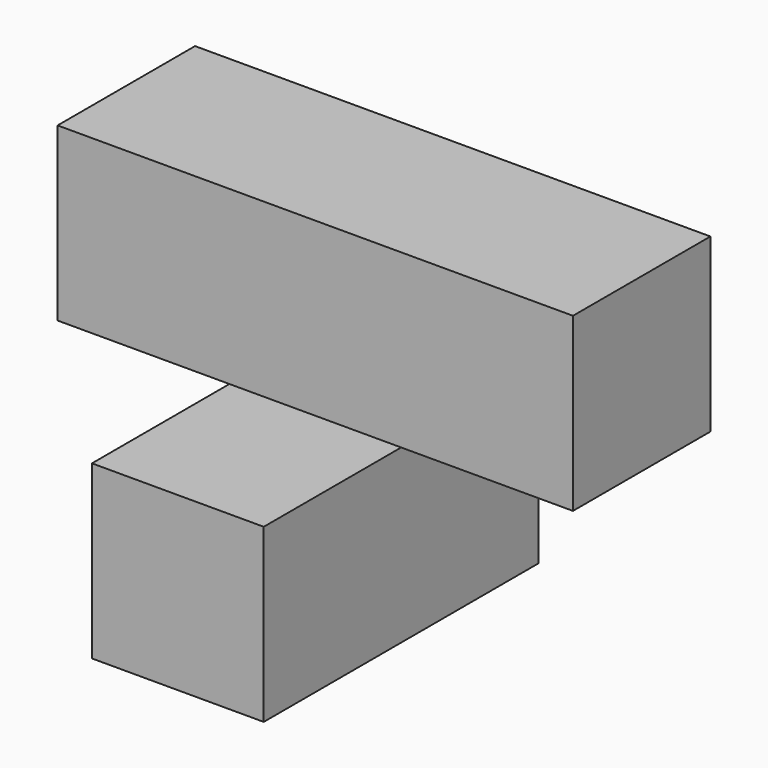
from build123d import *

# Parameters (mm, degrees)
F0_W      = 19.05
F0_H      = 19.05
F1_DEPTH  = 19.05
F1_FACE_W = 19.05
F1_FACE_H = 19.05
F2_DEPTH  = 19.05
F3_W      = 19.05
F3_H      = 19.05
F4_DEPTH  = 19.05
F5_W      = 19.05
F5_H      = 19.05
F6_DEPTH  = 19.05
F7_W      = 19.05
F7_H      = 19.05
F8_DEPTH  = 19.05


with BuildPart() as f1:
    # F0 (on Top) → F1 (new body)
    with BuildSketch(Plane.XY):
        with Locations((-9.525, 25.527001)):
            Rectangle(F0_W, F0_H)
        with Locations((-9.525, 25.527001)):
            Rectangle(F0_W, F0_H)
    extrude(amount=F1_DEPTH)

    # F1_face (on face) → F2 (join)
    with BuildSketch(Plane(origin=(-9.525, 25.527001, 19.05), x_dir=(1, 0, 0), z_dir=(0, 0, 1))):
        Rectangle(F1_FACE_W, F1_FACE_H)
    extrude(amount=F2_DEPTH)

    # F3 (on face) → F4 (join)
    with BuildSketch(Plane.XZ.offset(-16.002001)):
        with Locations((-9.525, 9.525)):
            Rectangle(F3_W, F3_H)
    extrude(amount=F4_DEPTH)

    # F5 (on face) → F6 (join)
    with BuildSketch(Plane.YZ):
        with Locations((25.527001, 28.575)):
            Rectangle(F5_W, F5_H)
        with Locations((25.527001, 28.575)):
            Rectangle(F5_W, F5_H)
    extrude(amount=F6_DEPTH)

    # F7 (on face) → F8 (join)
    with BuildSketch(Plane(origin=(-19.05, 0, 0), x_dir=(0, -1, 0), z_dir=(-1, 0, 0))):
        with Locations((-25.527001, 28.575)):
            Rectangle(F7_W, F7_H)
    extrude(amount=F8_DEPTH)


solid = f1.part
